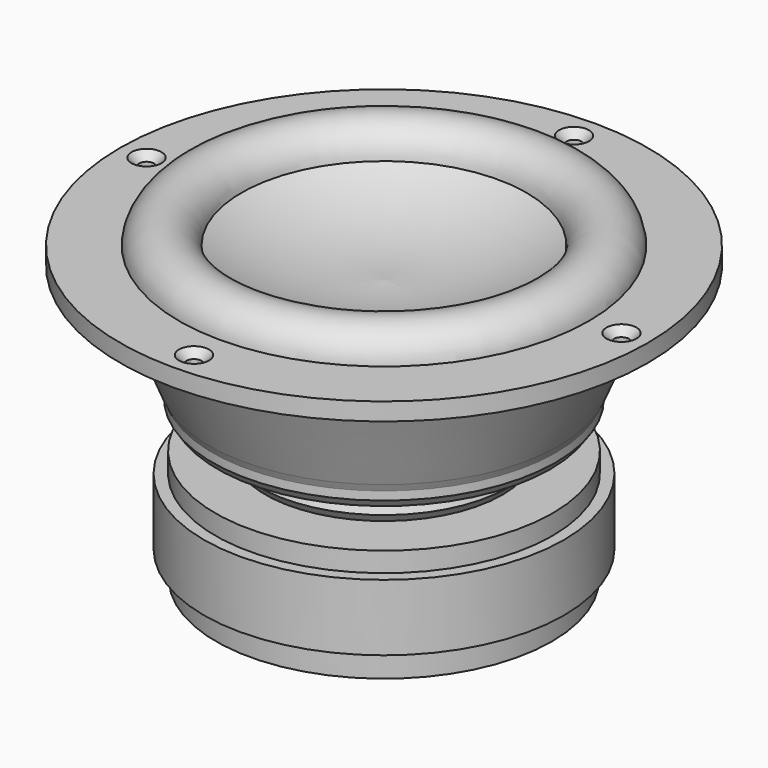
from build123d import *

# Parameters (mm, degrees)
F3_D           = 5
F3_CSINK_D     = 10
F3_CSINK_ANGLE = 90


with BuildPart() as f1:
    # F0 (on Front) → F1 (revolve)
    with BuildSketch(Plane.XZ):
        with BuildLine():
            ThreePointArc((-190.990701, 57.594627), (-214.010439, 49.059135), (-238.510296, 47.471683))
            Line((-238.510296, 47.471683), (-238.510296, -47.289033))
            Line((-238.510296, -47.289033), (-214.711192, -47.289033))
            Line((-214.711192, -47.289033), (-210.317552, -40.443134))
            Line((-210.317552, -40.443134), (-182.517037, -40.443134))
            Line((-182.517037, -40.443134), (-182.517037, -31.490419))
            Line((-182.517037, -31.490419), (-178.510296, -31.490419))
            Line((-178.510296, -31.490419), (-178.510296, -9.344243))
            Line((-178.510296, -9.344243), (-182.281435, -9.344243))
            Line((-182.281435, -9.344243), (-182.281435, -2.747509))
            Line((-182.281435, -2.747509), (-198.990889, -2.747509))
            Line((-198.990889, -2.747509), (-197.0881, 0))
            Line((-197.0881, 0), (-198.068701, 2.470315))
            Line((-198.068701, 2.470315), (-196.387656, 5.342103))
            Line((-196.387656, 5.342103), (-194.35639, 6.252669))
            Line((-194.35639, 6.252669), (-192.185037, 6.252669))
            Line((-192.185037, 6.252669), (-190.503992, 8.494064))
            Line((-190.503992, 8.494064), (-189.943649, 9.964979))
            Line((-189.943649, 9.964979), (-183.009334, 9.964979))
            Line((-183.009334, 9.964979), (-181.258239, 12.486549))
            Line((-181.258239, 12.486549), (-181.258239, 15.288292))
            Line((-181.258239, 15.288292), (-180.143081, 17.739819))
            Line((-180.143081, 17.739819), (-168.510296, 45.827299))
            Line((-168.510296, 45.827299), (-168.510296, 51.710967))
            Line((-168.510296, 51.710967), (-150.510296, 51.710967))
            Line((-150.510296, 51.710967), (-150.510296, 57.594627))
            Line((-150.510296, 57.594627), (-170.201316, 57.594627))
            ThreePointArc((-170.201316, 57.594627), (-180.596009, 67.044387), (-190.990701, 57.594627))
        make_face()
    revolve(axis=Axis((-238.510296, 0, -5.270179), (0, 0, -1)))

    # F3 (through all)
    with Locations(Plane.XY.offset(57.594627)):
        with Locations((-238.510296, 79.16931), (-317.679606, 0), (-159.340985, 0), (-238.510296, -79.16931)):
            CounterSinkHole(F3_D / 2, F3_CSINK_D / 2, counter_sink_angle=F3_CSINK_ANGLE)


solid = f1.part
